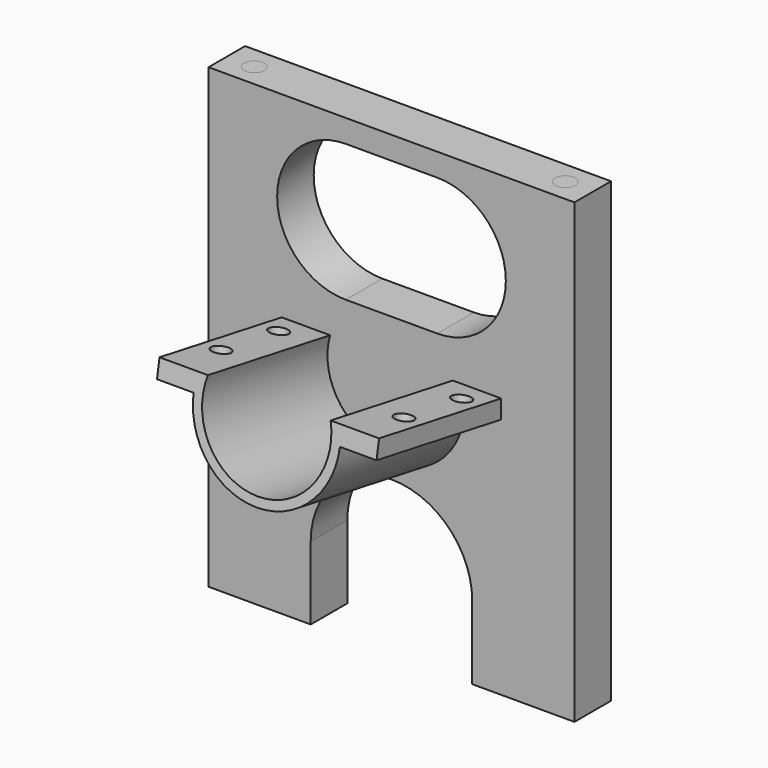
from build123d import *

# Parameters (mm, degrees)
BOX_W           = 40
BOX_H           = 5
BOX_DEPTH       = 50
POCKET003_DEPTH = 5.001
PAD_DEPTH       = 20
POCKET_DEPTH    = 21.711101
SKETCH002_R     = 1
POCKET001_DEPTH = 5.421201
POCKET002_DEPTH = 24.001
SKETCH006_R     = 1.1
POCKET004_DEPTH = 50.001


with BuildPart() as pocket003:
    # Box → Box (new body)
    with BuildSketch(Plane(origin=(-20, -3, -28), x_dir=(1, 0, 0), z_dir=(0, 0, 1))):
        with Locations((20, 2.5)):
            Rectangle(BOX_W, BOX_H)
    extrude(amount=BOX_DEPTH)

    # Sketch005 → Pocket003 (cut, through all)
    with BuildSketch(Plane(origin=(-20, -3, -28), x_dir=(1, 0, 0), z_dir=(0, -1, 0))):
        with BuildLine():
            ThreePointArc((25, 32.5), (32.5, 40), (25, 47.5))
            Line((25, 47.5), (15, 47.5))
            ThreePointArc((15, 47.5), (7.5, 40), (15, 32.5))
            Line((25, 32.5), (15, 32.5))
        make_face()
        with BuildLine():
            ThreePointArc((28.82985, 8), (20, 16.82985), (11.17015, 8))
            Line((11.17015, 8), (11.17015, 0))
            Line((11.17015, 0), (28.82985, 0))
            Line((28.82985, 8), (28.82985, 0))
        make_face()
    extrude(amount=-POCKET003_DEPTH, mode=Mode.SUBTRACT)


with BuildPart() as fusion001:
    # Sketch → Pad (new body)
    with BuildSketch(Plane(origin=(0, 0, 0), x_dir=(1, 0, 0), z_dir=(0, -0.984808, 0.173648))):
        with BuildLine():
            Line((-12, 0), (-12, -2))
            Line((-12, -2), (-8, -2))
            ThreePointArc((-8, -2), (0, -10), (8, -2))
            Line((12, -2), (8, -2))
            Line((12, 0), (12, -2))
            Line((-12, 0), (12, 0))
        make_face()
    extrude(amount=PAD_DEPTH)

    # Sketch001 → Pocket (cut, through all)
    with BuildSketch(Plane(origin=(0, -19.696155, 3.472964), x_dir=(1, 0, 0), z_dir=(0, -0.984808, 0.173648))):
        with BuildLine():
            ThreePointArc((-6.708204, 0), (0, -9), (6.708204, 0))
            Line((-6.708204, 0), (6.708204, 0))
        make_face()
    extrude(amount=-POCKET_DEPTH, mode=Mode.SUBTRACT)

    # Sketch002 → Pocket001 (cut, through all)
    with BuildSketch(Plane(origin=(0, -0.347296, -1.969616), x_dir=(1, 0, 0), z_dir=(0, -0.173648, -0.984808))):
        with Locations((-10, 14)):
            Circle(SKETCH002_R)
        with Locations((-10, 6)):
            Circle(SKETCH002_R)
        with Locations((10, 14)):
            Circle(SKETCH002_R)
        with Locations((10, 6)):
            Circle(SKETCH002_R)
    extrude(amount=-POCKET001_DEPTH, mode=Mode.SUBTRACT)

    # Sketch003 → Pocket002 (cut, through all)
    with BuildSketch(Plane(origin=(12, 0, 0), x_dir=(0, 0.173648, 0.984808), z_dir=(1, 0, 0))):
        Polygon((-10, 0), (0, 1.76327), (0, 0), align=None)
    extrude(amount=-POCKET002_DEPTH, mode=Mode.SUBTRACT)

    # Fusion001: union Pocket003
    add(pocket003.part)


with BuildPart() as pocket004:
    # Pocket004 base: copy of Pocket003
    add(pocket003.part)

    # Sketch006 → Pocket004 (cut, through all)
    with BuildSketch(Plane(origin=(-20, -3, 22), x_dir=(1, 0, 0), z_dir=(0, 0, 1))):
        with Locations((3, 2.5)):
            Circle(SKETCH006_R)
        with Locations((37, 2.5)):
            Circle(SKETCH006_R)
    extrude(amount=-POCKET004_DEPTH, mode=Mode.SUBTRACT)


solid = Compound([fusion001.part, pocket004.part])
